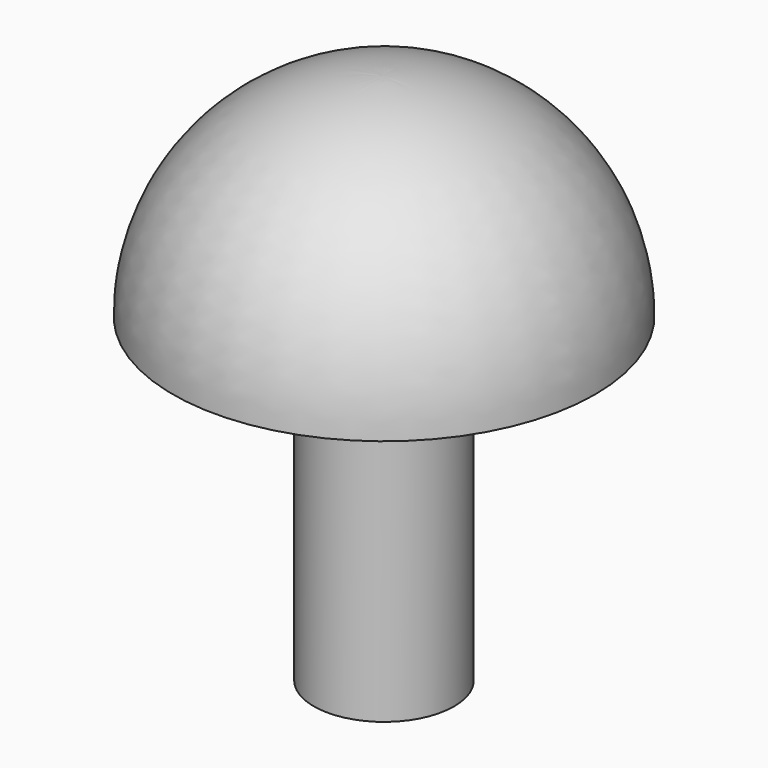
from build123d import *


with BuildPart() as f1:
    # F0 (on Front) → F1 (revolve)
    with BuildSketch(Plane.XZ):
        with BuildLine():
            Line((3.37983, 0), (10.170106, 0))
            ThreePointArc((10.170106, 0), (7.191351, 7.191351), (0, 10.170106))
            Line((0, 10.170106), (0, 0))
            Line((0, 0), (0, -15.434549))
            Line((0, -15.434549), (3.37983, -15.434549))
            Line((3.37983, -15.434549), (3.37983, 0))
        make_face()
    revolve(axis=Axis((0, 0, 5.085053), (0, 0, 1)))


solid = f1.part
